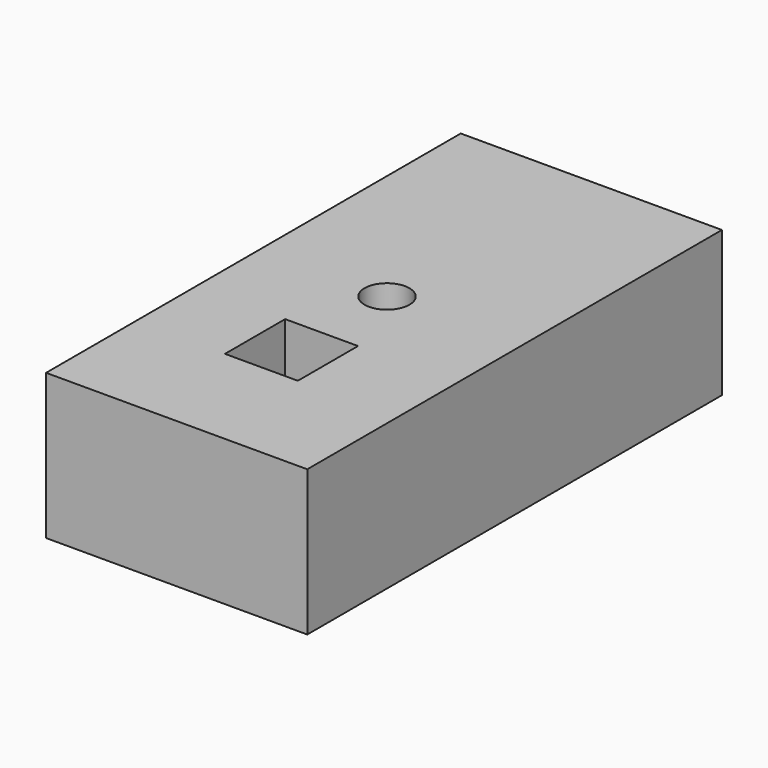
from build123d import *

# Parameters (mm, degrees)
F0_W     = 36.951749
F0_H     = 20.582954
F1_DEPTH = 73.328344
F4_D     = 6.35
F5_W     = 10.310262
F5_H     = 10.642964
F3_DEPTH = 25.4


with BuildPart() as f1:
    # F0 (on Front) → F1 (new body)
    with BuildSketch(Plane.XZ):
        with Locations((31.52898, 21.655689)):
            Rectangle(F0_W, F0_H)
    extrude(amount=F1_DEPTH)

    # F4 (through all)
    with Locations(Plane.XY.offset(31.947166)):
        with Locations((31.054407, -35.539657)):
            Hole(F4_D / 2)

    # F5 (on face) → F3 (cut)
    with BuildSketch(Plane.XY.offset(31.947166)):
        with Locations((30.807659, -52.12252)):
            Rectangle(F5_W, F5_H)
    extrude(amount=-F3_DEPTH, mode=Mode.SUBTRACT)


solid = f1.part
